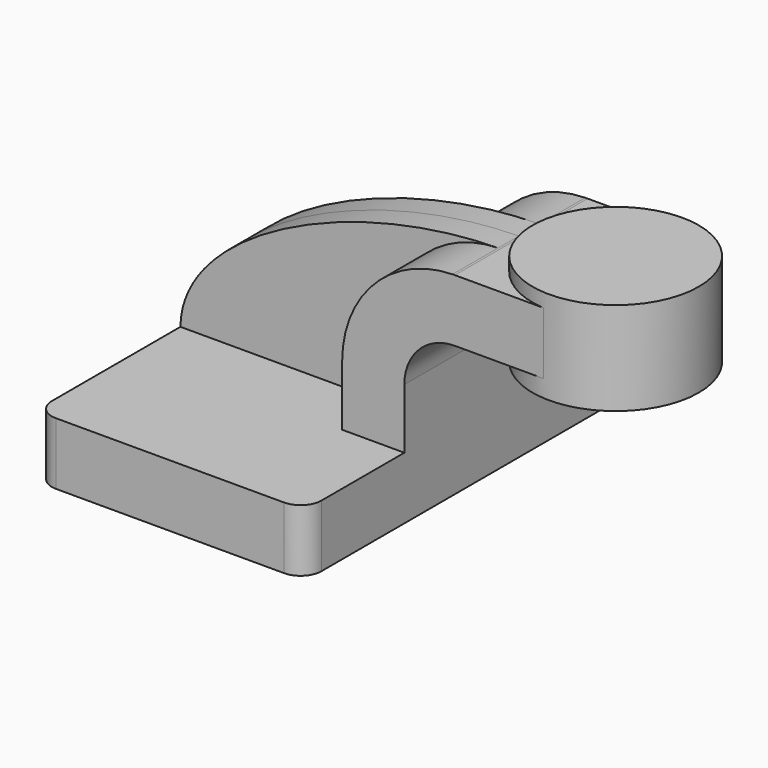
from build123d import *

# Parameters (mm, degrees)
F1_DEPTH = 63.5
F2_DEPTH = 25.4
F3_DEPTH = 7.9375
F0_W     = 25.3383931398
F0_H     = 19.05
F4_DEPTH = 25.4
F6_R     = 6.35


with BuildPart() as f1:
    # F0 (on Front) → F1 (new body, symmetric)
    with BuildSketch(Plane.XZ):
        Polygon((-41.275, 9.525), (-41.275, -9.525), (41.275, -9.525), (41.275, 9.525), (22.225, 9.525), align=None)
    extrude(amount=F1_DEPTH, both=True)

    # F0 (on Front) → F2 (join, symmetric)
    with BuildSketch(Plane.XZ):
        with BuildLine():
            Line((22.225, 9.525), (41.275, 9.525))
            Line((41.275, 9.525), (41.275, 27.9023065404))
            ThreePointArc((41.275, 27.9023065404), (45.8092487155, 38.8489512845), (56.7558934596, 43.3832))
            Line((56.7558934596, 43.3832), (60.325, 43.3832))
            Line((60.325, 43.3832), (60.325, 62.4332))
            Line((60.325, 62.4332), (56.7558934596, 62.4332))
            add(Edge.make_bspline(
                [(56.0523365217, 62.4260318717), (56.2869716177, 62.4290414397), (56.5214929769, 62.4314317376), (56.7558934596, 62.4332)],
                knots=[110.8356939077, 110.8356939077, 110.8356939077, 110.8356939077, 111.3971889221, 111.3971889221, 111.3971889221, 111.3971889221], degree=3))
            ThreePointArc((56.0523365217, 62.4260318717), (32.0913738739, 52.0693104243), (22.225, 27.9023065404))
            Line((22.225, 27.9023065404), (22.225, 9.525))
        make_face()
    extrude(amount=F2_DEPTH, both=True)

    # F0 (on Front) → F3 (join, symmetric)
    with BuildSketch(Plane.XZ):
        with BuildLine():
            add(Edge.make_bspline(
                [(-41.275, 9.525), (-41.0104163239, 37.1084338444), (9.7367985275, 61.8319615031), (56.0523365217, 62.4260318717)],
                knots=[0, 0, 0, 0, 110.8356939077, 110.8356939077, 110.8356939077, 110.8356939077], degree=3))
            Line((-41.275, 9.525), (22.225, 9.525))
            Line((22.225, 9.525), (22.225, 27.9023065404))
            ThreePointArc((22.225, 27.9023065404), (32.0913738739, 52.0693104243), (56.0523365217, 62.4260318717))
        make_face()
    extrude(amount=F3_DEPTH, both=True)

    # F0 (on Front) → F4 (join, symmetric)
    with BuildSketch(Plane.XZ):
        with Locations((72.9941965699, 52.9082)):
            Rectangle(F0_W, F0_H)
    extrude(amount=F4_DEPTH, both=True)

    # F0 (on Front) → F5 (revolve)
    with BuildSketch(Plane.XZ):
        Polygon((85.6633931398, 66.675), (85.6633931398, 62.4332), (85.6633931398, 43.3832), (85.6633931398, 38.1), (111.125, 38.1), (111.125, 66.675), align=None)
    revolve(axis=Axis((85.6633931398, 0, 52.3875), (0, 0, 1)))

    # F6
    f6_edges = [f1.edges().sort_by_distance(p)[0] for p in [
        (41.275, -63.5, 0),
        (-41.275, -63.5, 0),
        (41.275, 63.5, 0),
        (-41.275, 63.5, 0),
    ]]
    fillet(f6_edges, radius=F6_R)


solid = f1.part
